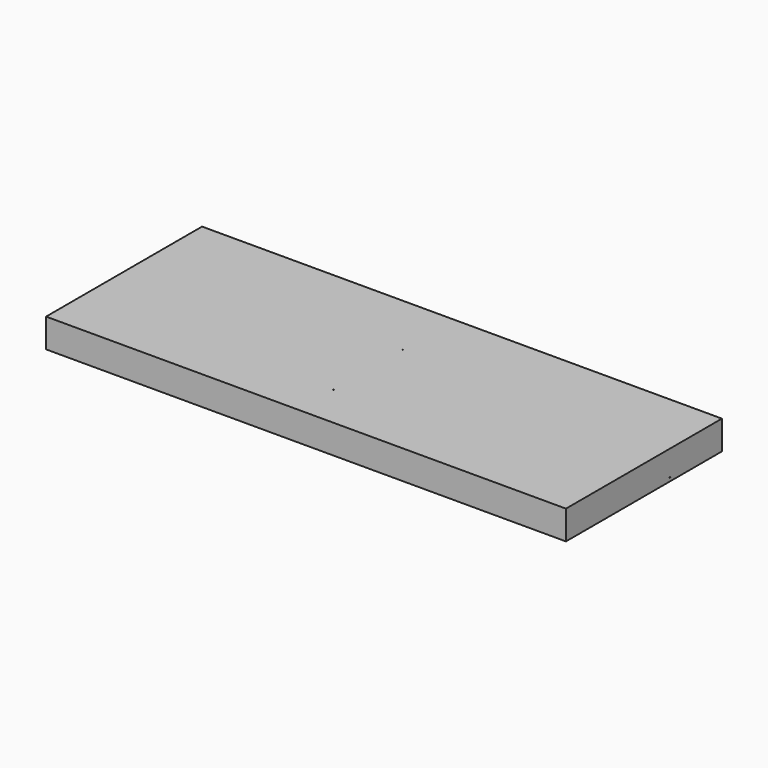
from build123d import *

# Parameters (mm, degrees)
F0_W     = 3657.6
F0_H     = 203.2
F3_DEPTH = 1371.6
F4_D     = 6.35
F5_D     = 6.35
F6_D     = 6.35


with BuildPart() as f3:
    # F0 (on Front) → F3 (new body)
    with BuildSketch(Plane.XZ):
        with Locations((1828.8, 101.6)):
            Rectangle(F0_W, F0_H)
    extrude(amount=-F3_DEPTH)

    # F4 (through all)
    with Locations(Plane(origin=(0, 0, 0), x_dir=(0, 1, 0), z_dir=(-1, 0, 0))):
        with Locations((914.4, -25.4)):
            Hole(F4_D / 2)

    # F5 (through all)
    with Locations(Plane(origin=(0, 0, 0), x_dir=(1, 0, 0), z_dir=(0, 0, -1))):
        with Locations((1778, -304.8)):
            Hole(F5_D / 2)

    # F6 (through all)
    with Locations(Plane(origin=(0, 0, 0), x_dir=(1, 0, 0), z_dir=(0, 0, -1))):
        with Locations((1778, -914.4)):
            Hole(F6_D / 2)


solid = f3.part
